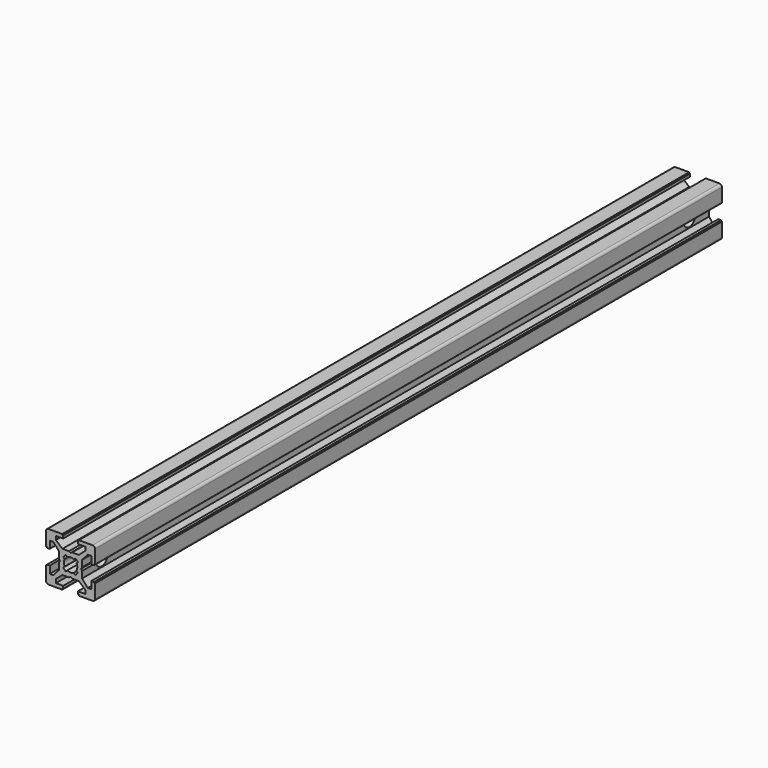
from build123d import *

# Parameters (mm, degrees)
PAD_DEPTH          = 320
POCKET_DEPTH       = 320
POLARPATTERN_COUNT = 4
POCKET001_DEPTH    = 320
SKETCH003_R        = 3
POCKET002_DEPTH    = 20
SKETCH004_R        = 5
POCKET004_DEPTH    = 3


with BuildPart() as part:
    # Sketch → Pad (new body)
    with BuildSketch(Plane.XZ):
        with BuildLine():
            Line((-9, 10), (9, 10))
            ThreePointArc((10, 9), (9.707107, 9.707107), (9, 10))
            Line((10, 9), (10, -9))
            ThreePointArc((9, -10), (9.707107, -9.707107), (10, -9))
            Line((9, -10), (-9, -10))
            ThreePointArc((-10, -9), (-9.707107, -9.707107), (-9, -10))
            Line((-10, -9), (-10, 9))
            ThreePointArc((-9, 10), (-9.707107, 9.707107), (-10, 9))
        make_face()
    extrude(amount=PAD_DEPTH)

    # Sketch001 (on Face10 of Pad) → Pocket (cut)
    with BuildSketch(Plane.XZ.offset(320)):
        Polygon((-3.4, 10), (-3.4, 9.6), (-3, 9.6), (-3, 8.5), (-6, 8.5), (-6, 7), (-3.35, 4.7), (-0.65, 4.7), (0, 4.3), (0.65, 4.7), (3.35, 4.7), (6, 7), (6, 8.5), (3, 8.5), (3, 9.6), (3.4, 9.6), (3.4, 10), align=None)
    pocket = extrude(amount=-POCKET_DEPTH, mode=Mode.SUBTRACT)

    # PolarPattern: Pocket ×4 about axis
    polarpattern_axis = Axis((0, -320, 0), (0, -1, 0))
    for i in range(1, POLARPATTERN_COUNT):
        add(pocket.rotate(polarpattern_axis, i * 360 / POLARPATTERN_COUNT), mode=Mode.SUBTRACT)

    # Sketch002 (on Face4 of PolarPattern) → Pocket001 (cut)
    with BuildSketch(Plane.XZ.offset(320)):
        with BuildLine():
            ThreePointArc((1.340499, 2.401159), (0, 2.75), (-1.340499, 2.401159))
            Line((-1.944544, 3.005204), (-1.340499, 2.401159))
            Line((-3.005204, 1.944544), (-1.944544, 3.005204))
            Line((-2.401159, 1.340499), (-3.005204, 1.944544))
            ThreePointArc((-2.401159, 1.340499), (-2.75, 0), (-2.401159, -1.340499))
            Line((-3.005204, -1.944544), (-2.401159, -1.340499))
            Line((-1.944544, -3.005204), (-3.005204, -1.944544))
            Line((-1.340499, -2.401159), (-1.944544, -3.005204))
            ThreePointArc((-1.340499, -2.401159), (0, -2.75), (1.340499, -2.401159))
            Line((1.944544, -3.005204), (1.340499, -2.401159))
            Line((3.005204, -1.944544), (1.944544, -3.005204))
            Line((2.401159, -1.340499), (3.005204, -1.944544))
            ThreePointArc((2.401159, -1.340499), (2.75, 0), (2.401159, 1.340499))
            Line((2.401159, 1.340499), (3.005204, 1.944544))
            Line((3.005204, 1.944544), (1.944544, 3.005204))
            Line((1.944544, 3.005204), (1.340499, 2.401159))
        make_face()
    extrude(amount=-POCKET001_DEPTH, mode=Mode.SUBTRACT)

    # Sketch003 (on Face44 of Pocket001) → Pocket002 (cut)
    with BuildSketch(Plane(origin=(10, 0, 0), x_dir=(0, 0, 1), z_dir=(1, 0, 0))):
        with Locations((0, 10)):
            Circle(SKETCH003_R)
        with Locations((0, 310)):
            Circle(SKETCH003_R)
    extrude(amount=-POCKET002_DEPTH, mode=Mode.SUBTRACT)

    # Sketch004 (on Face37 of Pocket002) → Pocket004 (cut)
    with BuildSketch(Plane(origin=(-10, 0, 0), x_dir=(0, 0, -1), z_dir=(-1, 0, 0))):
        with Locations((0, 10)):
            Circle(SKETCH004_R)
        with Locations((0, 310)):
            Circle(SKETCH004_R)
    extrude(amount=-POCKET004_DEPTH, mode=Mode.SUBTRACT)


solid = part.part
